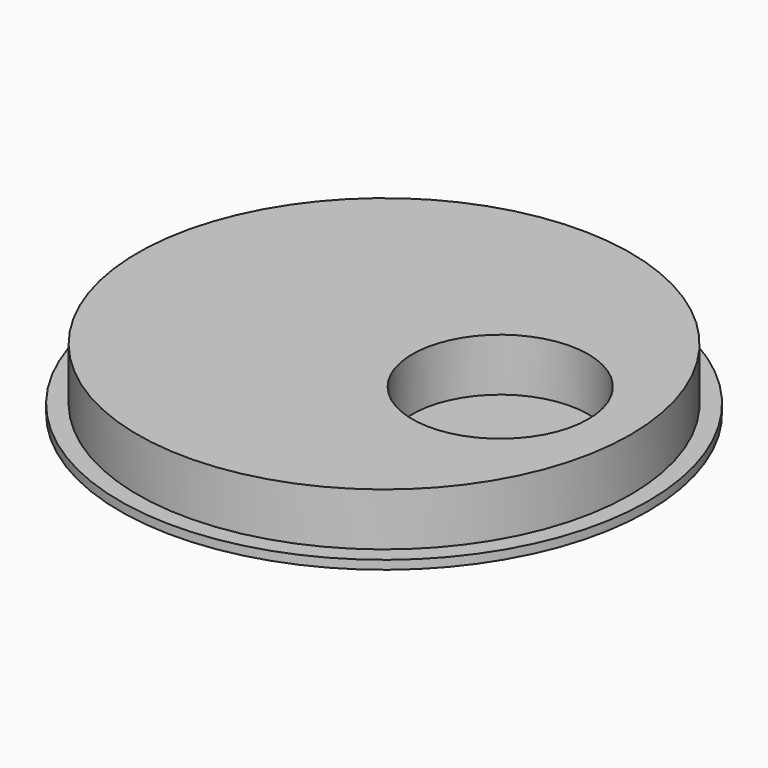
from build123d import *

# Parameters (mm, degrees)
F0_R        = 14
F0_R_2      = 5
F1_DEPTH    = 3
F0_R_3      = 15
F1_FACE_R   = 14
F1_FACE_R_2 = 5
F2_DEPTH    = 0.5


with BuildPart() as f1:
    # F0 (on Top) → F1 (new body)
    with BuildSketch(Plane.XY):
        Circle(F0_R)
        with Locations((6.601435598, 0)):
            Circle(F0_R_2, mode=Mode.SUBTRACT)
    extrude(amount=F1_DEPTH)

    # F0 (on Top) + F1_face (on face) → F2 (join)
    with BuildSketch(Plane.XY):
        Circle(F0_R_3)
        Circle(F0_R, mode=Mode.SUBTRACT)
        Circle(F0_R)
        with Locations((6.601435598, 0)):
            Circle(F0_R_2, mode=Mode.SUBTRACT)
        with Locations((6.601435598, 0)):
            Circle(F0_R_2)
    with BuildSketch(Plane(origin=(-0.9651221634, 0, 3), x_dir=(1, 0, 0), z_dir=(0, 0, 1))):
        with Locations((0.9651221634, 0)):
            Circle(F1_FACE_R)
        with Locations((7.5665577614, 0)):
            Circle(F1_FACE_R_2, mode=Mode.SUBTRACT)
    extrude(amount=-F2_DEPTH)


solid = f1.part
